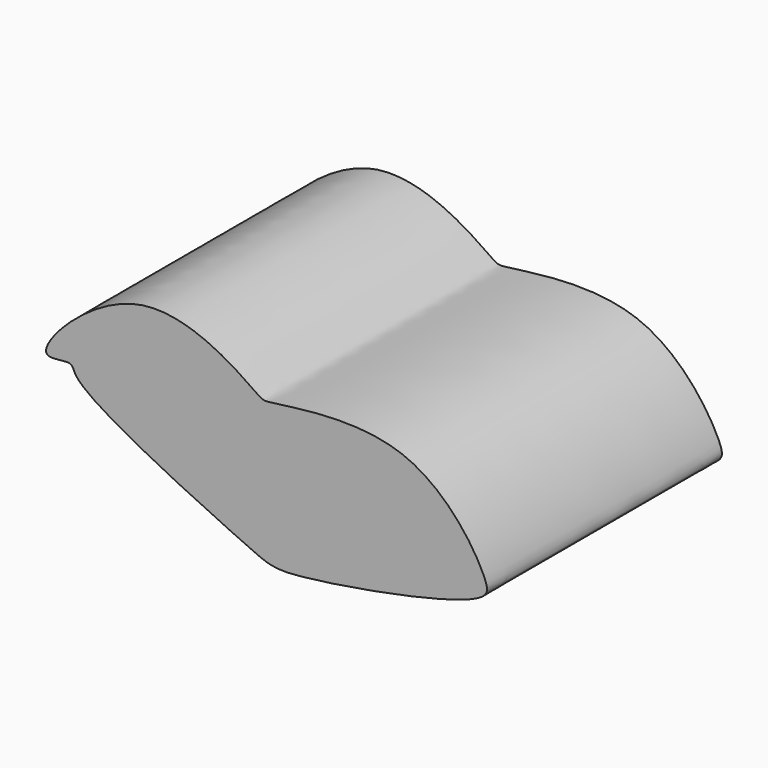
from build123d import *

# Parameters (mm, degrees)
F1_DEPTH = 76.2


with BuildPart() as f1:
    # F0 (on Front) → F1 (new body)
    with BuildSketch(Plane.XZ):
        with BuildLine():
            add(Edge.make_bspline(
                [(-55.6880235672, -19.0056972206), (-57.5141618821, -16.4830328915), (-31.2274675356, 12.1263751689), (-1.0212562675, -10.8115553847), (1.7538067616, -11.9403828885), (40.1304142814, -4.01254777), (58.718636809, -32.5229194787), (59.1021642524, -40.6723003123), (5.9031615412, -50.2304106818), (-0.9908902095, -47.3021294505), (-49.9168153133, -24.6133829343), (-48.382433547, -18.1073993823), (-54.8900551363, -20.1080269181), (-55.6880235672, -19.0056972206)],
                knots=[0, 0, 0, 0, 0.1136414078, 0.2300201482, 0.2681445709, 0.3885728919, 0.5014767338, 0.5470564645, 0.6897063411, 0.7667778667, 0.9108887745, 0.950342066, 1, 1, 1, 1], degree=3))
        make_face()
    extrude(amount=F1_DEPTH)


solid = f1.part
